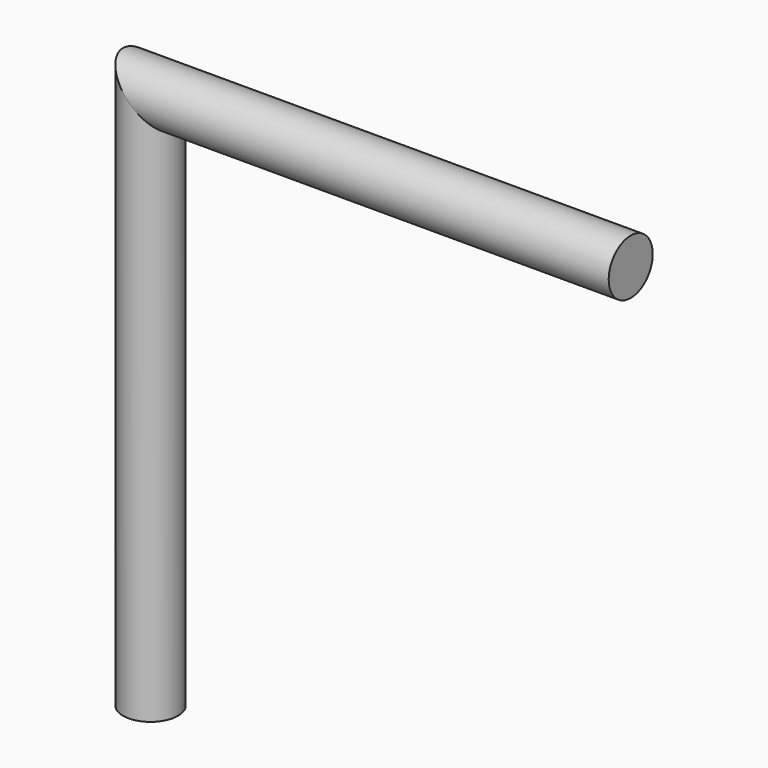
from build123d import *

# Parameters (mm, degrees)
F0_R = 17.4514588069


with BuildPart() as f2:
    # F2: sweep along a path in F1
    with BuildLine(Plane.XZ) as f2_path:
        Line((304.3861687183, 343.911498785), (0, 343.911498785))
        Line((0, 343.911498785), (0, 0))
    # F0 (on Top) → F2 (sweep)
    with BuildSketch(Plane.XY):
        with Locations((-0.0907261565, 0.0907258072)):
            Circle(F0_R)
    sweep(path=f2_path.line, transition=Transition.RIGHT)


solid = f2.part
